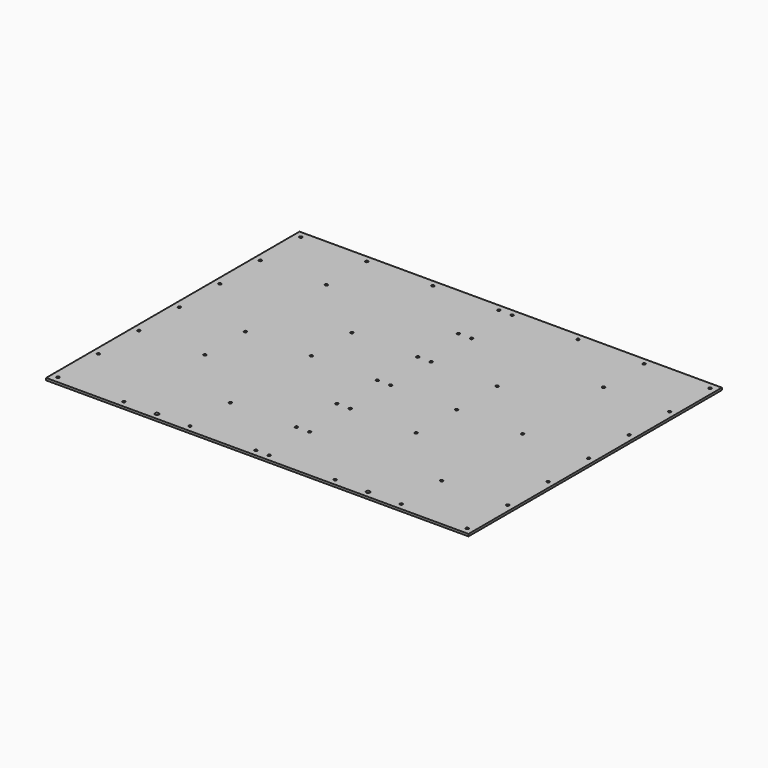
from build123d import *

# Parameters (mm, degrees)
F0_W           = 1219.2
F0_H           = 914.4
F1_DEPTH       = 6.35
F3_D           = 5.1054
F3_CSINK_D     = 7.9375
F3_CSINK_ANGLE = 82
F4_D           = 11.1125


with BuildPart() as f1:
    # F0 (on Top) → F1 (new body)
    with BuildSketch(Plane.XY):
        Rectangle(F0_W, F0_H)
    extrude(amount=F1_DEPTH)

    # F3 (through all)
    with Locations(Plane.XY.offset(6.35)):
        with Locations((-590.55, 438.15), (-400.05, 438.15), (-209.55, 438.15), (-19.05, 438.15), (19.05, 438.15), (209.55, 438.15), (400.05, 438.15), (590.55, 438.15), (590.55, 292.1), (590.55, 146.05), (590.55, 0), (590.55, -146.05), (590.55, -292.1), (590.55, -438.15), (400.05, -438.15), (209.55, -438.15), (19.05, -438.15), (-19.05, -438.15), (-209.55, -438.15), (-400.05, -438.15), (-590.55, -438.15), (-590.55, -292.1), (-590.55, -146.05), (-590.55, 0), (-590.55, 146.05), (-590.55, 292.1), (-19.05, -292.1), (19.05, -292.1), (-19.05, -146.05), (19.05, -146.05), (-19.05, 0), (19.05, 0), (-19.05, 146.05), (19.05, 146.05), (-19.05, 292.1), (19.05, 292.1), (-400.05, 292.1), (-400.05, 0), (-400.05, -146.05), (-209.55, -292.1), (-209.55, 0), (-209.55, 146.05), (209.55, 146.05), (209.55, 0), (209.55, -146.05), (400.05, -292.1), (400.05, 0), (400.05, 292.1)):
            CounterSinkHole(F3_D / 2, F3_CSINK_D / 2, counter_sink_angle=F3_CSINK_ANGLE)

    # F4 (through all)
    with Locations(Plane.XY.offset(6.35)):
        with Locations((304.8, -438.15), (-304.8, -438.15)):
            Hole(F4_D / 2)


solid = f1.part
